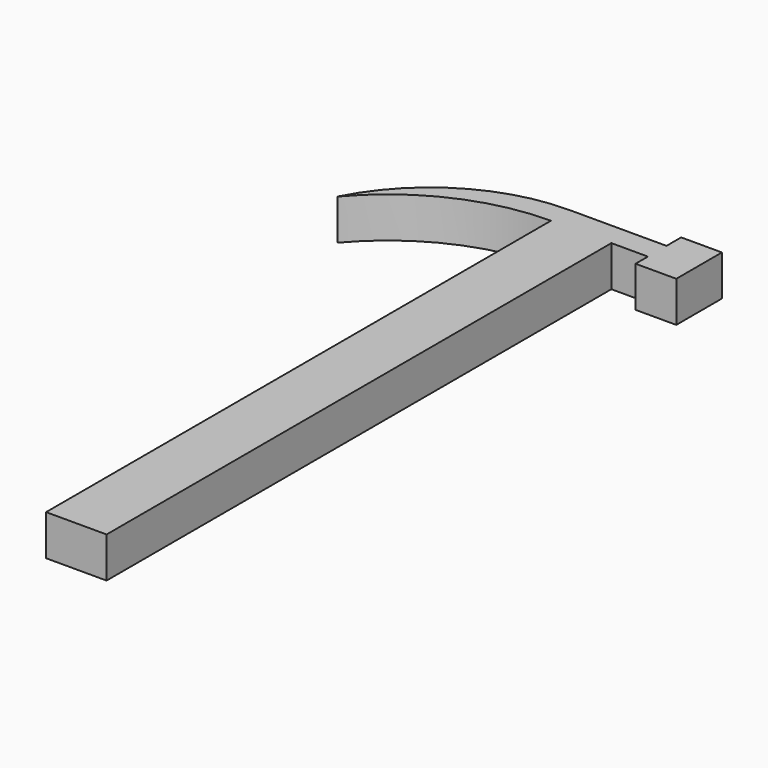
from build123d import *

# Parameters (mm, degrees)
F1_DEPTH = 4.2


with BuildPart() as f1:
    # F0 (on Top) → F1 (new body)
    with BuildSketch(Plane.XY):
        with BuildLine():
            Line((-21.753184, 26.967989), (-21.753184, -38.291566))
            Line((-21.753184, -38.291566), (-15.49542, -38.291566))
            Line((-15.49542, -38.291566), (-15.49542, 26.967989))
            Line((-15.49542, 26.967989), (-11.718347, 26.967989))
            Line((-11.718347, 26.967989), (-11.718347, 25.370423))
            Line((-11.718347, 25.370423), (-7.504017, 25.370423))
            Line((-7.504017, 25.370423), (-7.504017, 31.270303))
            Line((-7.504017, 31.270303), (-11.718347, 31.270303))
            Line((-11.718347, 31.270303), (-11.718347, 29.373912))
            Line((-11.718347, 29.373912), (-21.753184, 29.373912))
            ThreePointArc((-21.753184, 29.373912), (-31.188051, 26.714196), (-37.844583, 19.518269))
            ThreePointArc((-37.844583, 19.518269), (-30.619292, 25.015211), (-21.753184, 26.967989))
        make_face()
    extrude(amount=F1_DEPTH)


solid = f1.part
